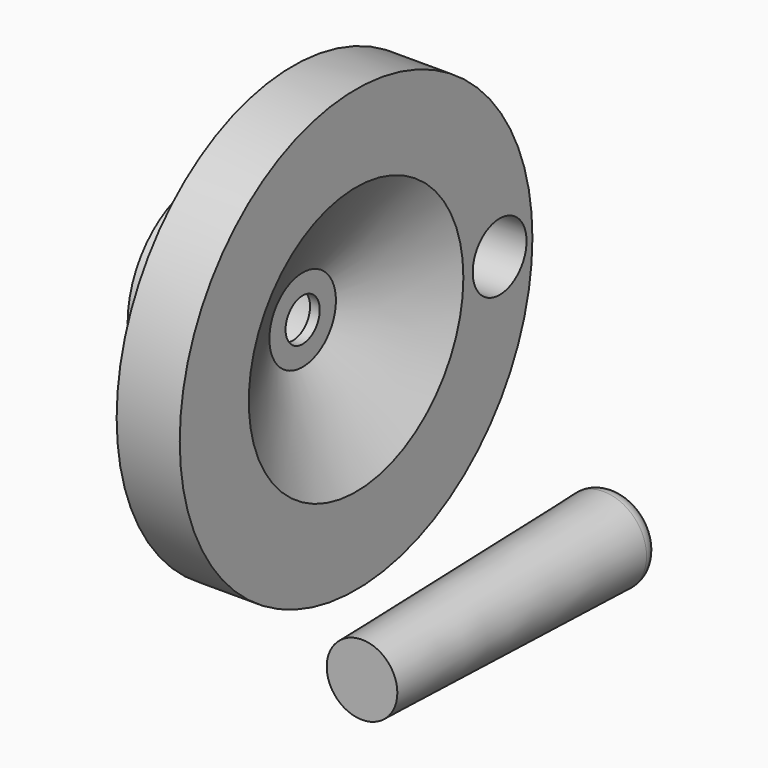
from build123d import *

# Parameters (mm, degrees)
F0_R      = 52.4
F0_R_2    = 31.8270432581
F0_R_3    = 8
F1_DEPTH  = 15
F2_R      = 31.8844804613
F3_DEPTH  = 12.7
F3_TAPER  = 60
F4_R      = 5.08
F5_DEPTH  = 2.301
F6_R      = 31
F6_R_2    = 5.08
F7_DEPTH  = 5.7
F7_TAPER  = 60
F8_DEPTH  = 16.7
F9_R      = 10.3
F10_DEPTH = 75.7
F10_TAPER = 1.44
F11_R     = 3.81


with BuildPart() as f1:
    # F0 (on Right) → F1 (new body)
    with BuildSketch(Plane.YZ):
        Circle(F0_R)
        Circle(F0_R_2, mode=Mode.SUBTRACT)
        with Locations((42.6571465449, 0)):
            Circle(F0_R_3, mode=Mode.SUBTRACT)
        Circle(F0_R_2)
    extrude(amount=-F1_DEPTH)

    # F2 (on face) → F3 (cut)
    with BuildSketch(Plane.YZ):
        Circle(F2_R)
    extrude(amount=-F3_DEPTH, taper=F3_TAPER, mode=Mode.SUBTRACT)

    # F4 (on face) → F5 (cut, through all)
    with BuildSketch(Plane.YZ.offset(-12.7)):
        Circle(F4_R)
    extrude(amount=-F5_DEPTH, mode=Mode.SUBTRACT)

    # F6 (on face) → F7 (join)
    with BuildSketch(Plane(origin=(-15, 0, 0), x_dir=(0, -1, 0), z_dir=(-1, 0, 0))):
        Circle(F6_R)
        Circle(F6_R_2, mode=Mode.SUBTRACT)
    extrude(amount=F7_DEPTH, taper=F7_TAPER)

    # F8 (add): a face of the model
    f8_faces = [f1.faces().sort_by_distance(p)[0] for p in [
        (-20.7, 20.5297398189, 0),
    ]]
    extrude(f8_faces, amount=F8_DEPTH)


with BuildPart() as f10:
    # F9 (on Front) → F10 (new body)
    with BuildSketch(Plane.XZ):
        with Locations((61.9771853089, -20.2719457448)):
            Circle(F9_R)
    extrude(amount=F10_DEPTH, taper=F10_TAPER)

    # F11
    f11_edges = [f10.edges().sort_by_distance(p)[0] for p in [
        (51.677185, 0, -20.271946),
    ]]
    fillet(f11_edges, radius=F11_R)


solid = Compound([f1.part, f10.part])
